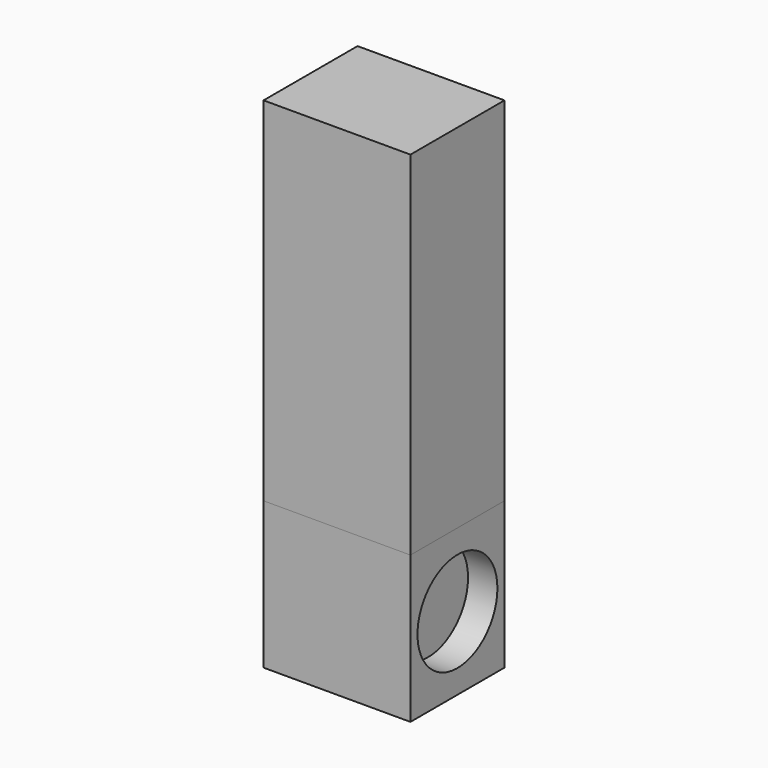
from build123d import *

# Parameters (mm, degrees)
F0_W     = 50.8
F0_H     = 152.4
F1_DEPTH = 31.75
F2_W     = 50.8
F2_H     = 63.5
F2_R     = 21.59
F3_DEPTH = 63.5
F5_START = -12.7
F4_R     = 21.59
F5_DEPTH = 50.8


with BuildPart() as f1:
    # F0 (on Right) → F1 (new body, symmetric)
    with BuildSketch(Plane.YZ):
        Rectangle(F0_W, F0_H)
    extrude(amount=F1_DEPTH, both=True)


with BuildPart() as f3:
    # F2 (on face) → F3 (new body)
    with BuildSketch(Plane.YZ.offset(31.75)):
        with Locations((0, -107.95)):
            Rectangle(F2_W, F2_H)
        with Locations((0, -107.95)):
            Circle(F2_R, mode=Mode.SUBTRACT)
    extrude(amount=-F3_DEPTH)


with BuildPart() as f5:
    # F4 (on face) → F5 (new body)
    with BuildSketch(Plane.YZ.offset(31.75).offset(F5_START)):
        with Locations((0, -107.95)):
            Circle(F4_R)
    extrude(amount=-F5_DEPTH)


solid = Compound([f1.part, f3.part, f5.part])
